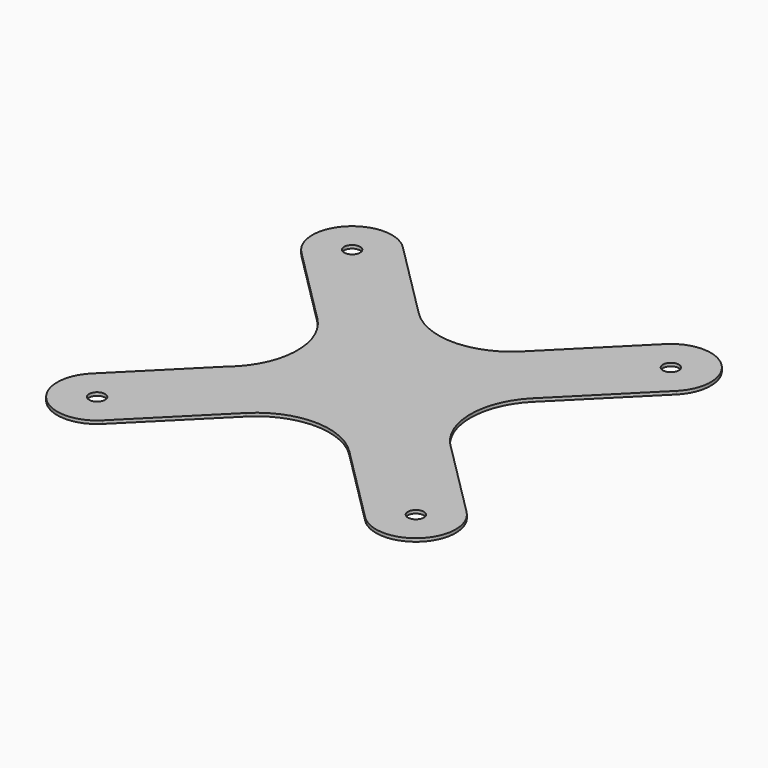
from build123d import *

# Parameters (mm, degrees)
F0_R     = 2.5
F1_DEPTH = 1


with BuildPart() as f1:
    # F0 (on Top) → F1 (new body)
    with BuildSketch(Plane.XY):
        with BuildLine():
            Line((-24.598089, 25.583514), (-49.598089, 50.583514))
            ThreePointArc((-49.598089, 50.583514), (-67.275759, 50.583514), (-67.275759, 32.905845))
            Line((-67.275759, 32.905845), (-42.275759, 7.905845))
            ThreePointArc((-42.275759, 7.905845), (-35.577566, -9.360294), (-43.809394, -25.95012))
            Line((-43.809394, -25.95012), (-67.275759, -49.416486))
            ThreePointArc((-67.275759, -49.416486), (-67.275759, -67.094155), (-49.598089, -67.094155))
            Line((-49.598089, -67.094155), (-24.598089, -42.094155))
            ThreePointArc((-24.598089, -42.094155), (-8.436924, -35.399981), (7.724241, -42.094155))
            Line((7.724241, -42.094155), (32.724241, -67.094155))
            ThreePointArc((32.724241, -67.094155), (50.401911, -67.094155), (50.401911, -49.416486))
            Line((50.401911, -49.416486), (26.404182, -25.418757))
            ThreePointArc((26.404182, -25.418757), (18.705964, -8.972916), (25.401911, 7.905845))
            Line((25.401911, 7.905845), (50.401911, 32.905845))
            ThreePointArc((50.401911, 32.905845), (50.401911, 50.583514), (32.724241, 50.583514))
            Line((32.724241, 50.583514), (7.724241, 25.583514))
            ThreePointArc((7.724241, 25.583514), (-8.436924, 18.889341), (-24.598089, 25.583514))
        make_face()
        with Locations((-58.436924, -58.25532)):
            Circle(F0_R, mode=Mode.SUBTRACT)
        with Locations((41.563076, -58.25532)):
            Circle(F0_R, mode=Mode.SUBTRACT)
        with Locations((-58.436924, 41.74468)):
            Circle(F0_R, mode=Mode.SUBTRACT)
        with Locations((41.563076, 41.74468)):
            Circle(F0_R, mode=Mode.SUBTRACT)
    extrude(amount=F1_DEPTH)


solid = f1.part
